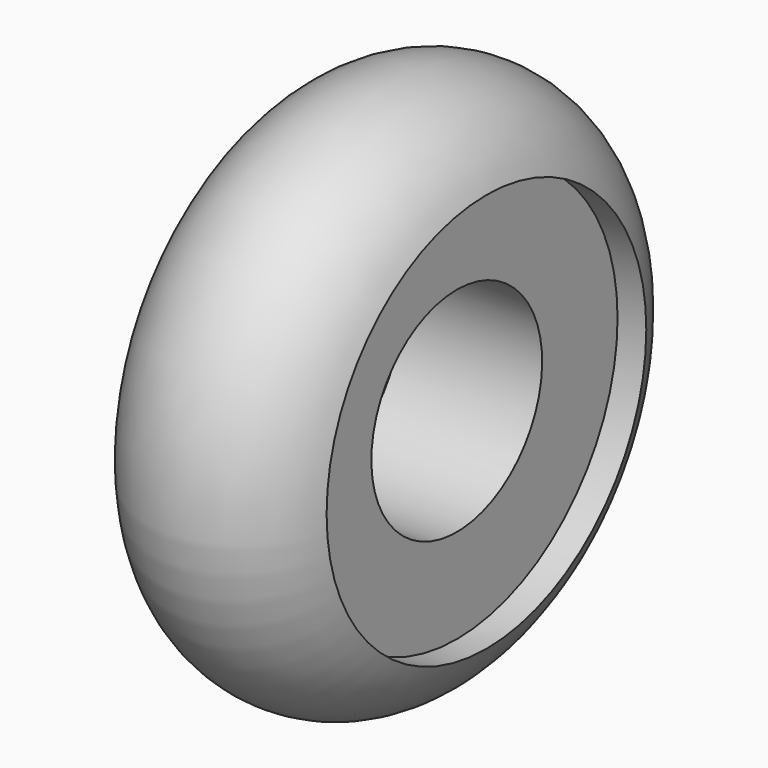
from build123d import *


with BuildPart() as f1:
    # F0 (on Front) → F1 (revolve)
    with BuildSketch(Plane.XZ):
        with BuildLine():
            Line((17.0564521104, 45.4489319553), (23.7701609731, 45.181453228))
            ThreePointArc((23.7701609731, 45.181453228), (1.6020086146, 61.2497409986), (-21.7741951346, 46.9959713519))
            Line((-21.7741951346, 46.9959713519), (-14.8683069515, 46.7208360697))
            Line((-14.8683069515, 46.7208360697), (17.0564521104, 46.7208360697))
            Line((17.0564521104, 46.7208360697), (17.0564521104, 45.4489319553))
        make_face()
        Polygon((17.0564521104, 24.1330657154), (17.0564521104, 45.4489319553), (-14.8683069515, 46.7208360697), (-14.8683069515, 24.1330657154), align=None)
        Polygon((-14.8683069515, 46.7208360697), (17.0564521104, 45.4489319553), (17.0564521104, 46.7208360697), align=None)
    revolve(axis=Axis((-0.3629028797, 0, 0), (1, 0, 0)))


solid = f1.part
